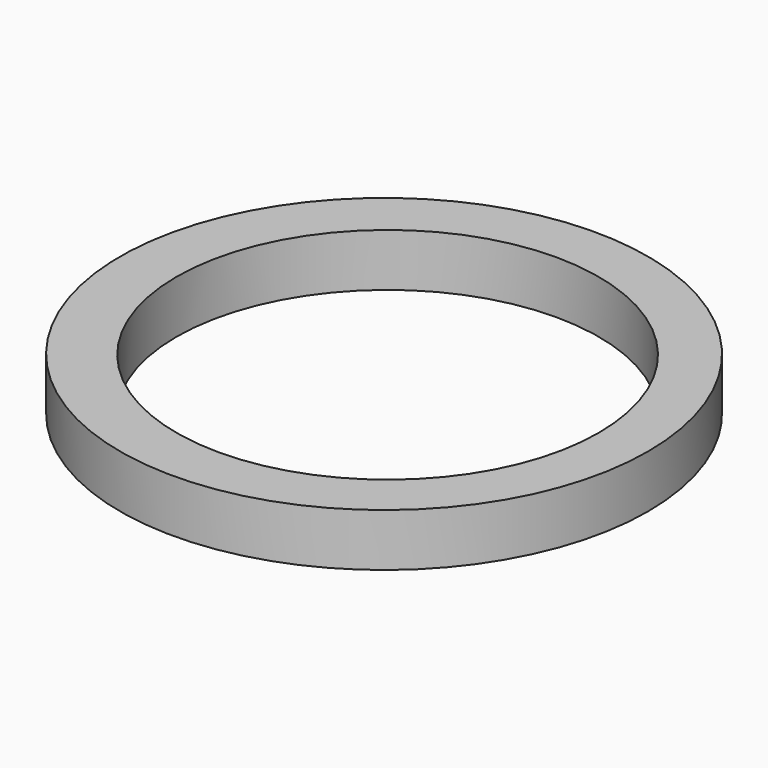
from build123d import *

# Parameters (mm, degrees)
F0_R     = 31.75
F1_DEPTH = 6.35
F2_R     = 25.4
F3_DEPTH = 6.35


with BuildPart() as f1:
    # F0 (on Top) → F1 (new body)
    with BuildSketch(Plane.XY):
        with Locations((-38.708258, 39.120953)):
            Circle(F0_R)
    extrude(amount=F1_DEPTH)

    # F2 (on Top) → F3 (cut, through all)
    with BuildSketch(Plane.XY):
        with Locations((-38.345361, 39.1978)):
            Circle(F2_R)
    extrude(amount=F3_DEPTH, mode=Mode.SUBTRACT)


solid = f1.part
